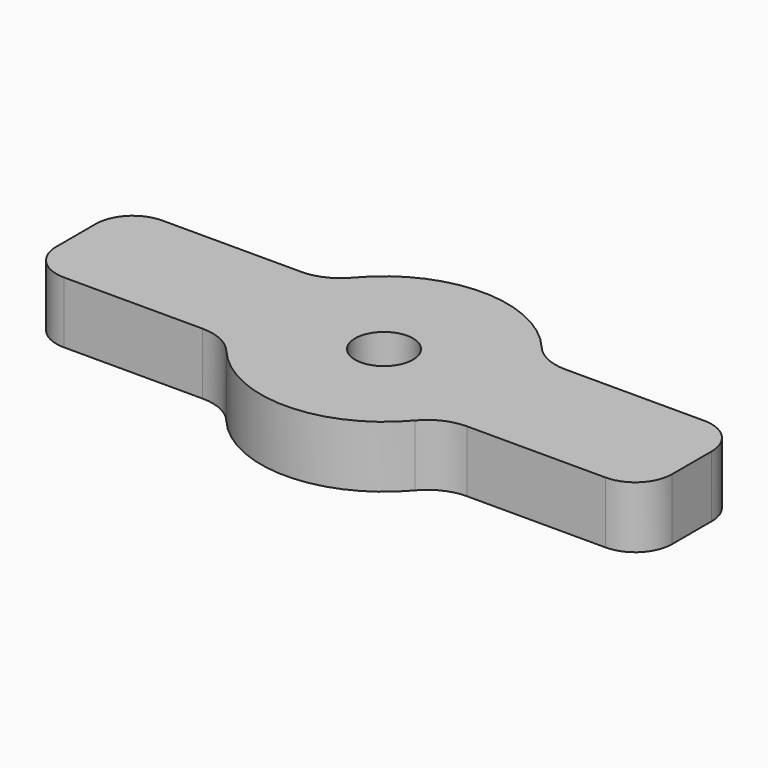
from build123d import *

# Parameters (mm, degrees)
F1_DEPTH = 6.35
F2_R     = 2.9845
F3_DEPTH = 6.35
F4_R     = 5.08
F5_R     = 3.81


with BuildPart() as f1:
    # F0 (on Top) → F1 (new body)
    with BuildSketch(Plane.XY):
        with BuildLine():
            Line((-10.9985226281, 6.35), (10.9985226281, 6.35))
            ThreePointArc((10.9985226281, 6.35), (0, 12.7), (-10.9985226281, 6.35))
        make_face()
        with BuildLine():
            ThreePointArc((-10.9985226281, -6.35), (-12.7, 0), (-10.9985226281, 6.35))
            Line((-10.9985226281, 6.35), (-31.75, 6.35))
            Line((-31.75, 6.35), (-31.75, -6.35))
            Line((-31.75, -6.35), (-10.9985226281, -6.35))
        make_face()
        with BuildLine():
            ThreePointArc((10.9985226281, -6.35), (12.2672579939, -3.2870018728), (12.7, 0))
            ThreePointArc((12.7, 0), (12.2672579939, 3.2870018728), (10.9985226281, 6.35))
            Line((10.9985226281, 6.35), (-10.9985226281, 6.35))
            ThreePointArc((-10.9985226281, 6.35), (-12.7, 0), (-10.9985226281, -6.35))
            Line((-10.9985226281, -6.35), (10.9985226281, -6.35))
        make_face()
        with BuildLine():
            ThreePointArc((10.9985226281, 6.35), (12.2672579939, 3.2870018728), (12.7, 0))
            ThreePointArc((12.7, 0), (12.2672579939, -3.2870018728), (10.9985226281, -6.35))
            Line((10.9985226281, -6.35), (31.75, -6.35))
            Line((31.75, -6.35), (31.75, 6.35))
            Line((31.75, 6.35), (10.9985226281, 6.35))
        make_face()
        with BuildLine():
            ThreePointArc((-10.9985226281, -6.35), (0, -12.7), (10.9985226281, -6.35))
            Line((10.9985226281, -6.35), (-10.9985226281, -6.35))
        make_face()
    extrude(amount=F1_DEPTH)

    # F2 (on face) → F3 (cut)
    with BuildSketch(Plane.XY.offset(6.35)):
        Circle(F2_R)
    extrude(amount=-F3_DEPTH, mode=Mode.SUBTRACT)

    # F4
    f4_edges = [f1.edges().sort_by_distance(p)[0] for p in [
        (-10.998523, 6.35, 3.175),
        (10.998523, -6.35, 3.175),
        (-10.998523, -6.35, 3.175),
        (10.998523, 6.35, 3.175),
    ]]
    fillet(f4_edges, radius=F4_R)

    # F5
    f5_edges = [f1.edges().sort_by_distance(p)[0] for p in [
        (-31.75, 6.35, 3.175),
        (-31.75, -6.35, 3.175),
        (31.75, -6.35, 3.175),
        (31.75, 6.35, 3.175),
    ]]
    fillet(f5_edges, radius=F5_R)


solid = f1.part
